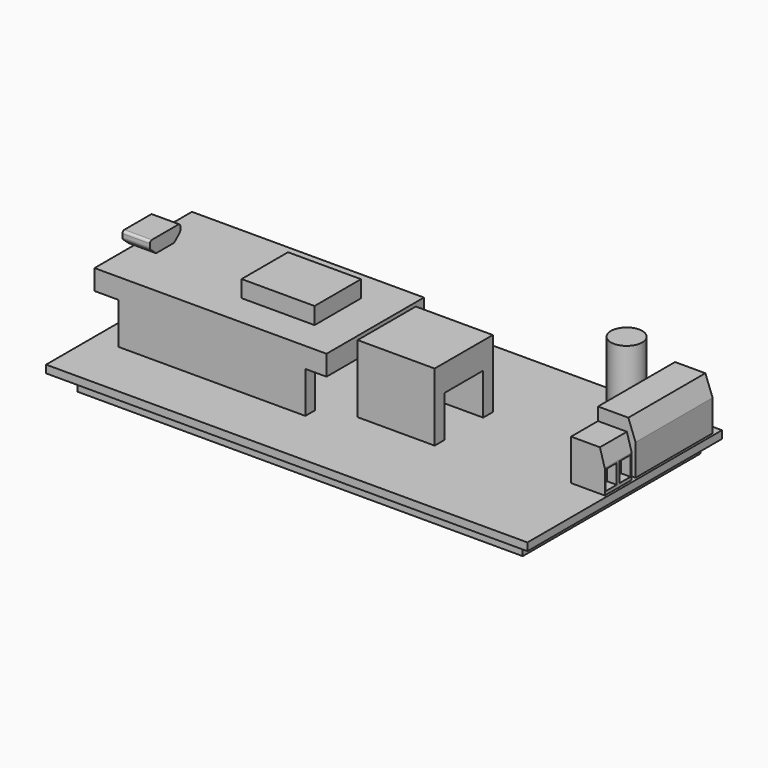
from build123d import *

# Parameters (mm, degrees)
F0_W      = 100
F0_H      = 50.5
F1_DEPTH  = 1.6
F2_W      = 7.8
F2_H      = 20
F3_DEPTH  = 10.5
F4_SIZE2  = 1.5
F4_SIZE   = 4
F2_W_2    = 7
F2_H_2    = 7
F5_DEPTH  = 8.5
F6_SIZE2  = 1
F6_SIZE   = 3.5
F2_R      = 3.25
F7_DEPTH  = 15
F2_W_3    = 38.8
F2_H_3    = 2.5
F2_W_4    = 16
F8_DEPTH  = 8.6
F9_W      = 92.5
F9_H      = 46.1
F10_DEPTH = 2.5
F11_W     = 2.9
F11_H     = 4
F12_DEPTH = 2
F13_W     = 16
F13_H     = 15.1
F14_DEPTH = 5.5
F15_W     = 48.2
F15_H     = 25.3
F16_DEPTH = 4.2
F17_W     = 15.16
F17_H     = 12.06
F18_DEPTH = 3.5
F19_W     = 5.7
F19_H     = 7.9
F20_DEPTH = 2.9
F22_DEPTH = 5.7
F23_R     = 0.5


with BuildPart() as f1:
    # F0 (on Top) → F1 (new body)
    with BuildSketch(Plane.XY):
        Rectangle(F0_W, F0_H)
    extrude(amount=F1_DEPTH)

    # F2 (on face) → F3 (join)
    with BuildSketch(Plane.XY.offset(1.6)):
        with Locations((45.6, 13.45)):
            Rectangle(F2_W, F2_H)
    extrude(amount=F3_DEPTH)

    # F4
    f4_edges = [f1.edges().sort_by_distance(p)[0] for p in [
        (49.5, 13.45, 12.1),
    ]]
    f4_side = f1.faces().sort_by_distance((49.5, 13.45, 6.85))[0]
    chamfer(f4_edges, length=F4_SIZE, length2=F4_SIZE2, reference=f4_side)

    # F2 (on face) → F5 (join)
    with BuildSketch(Plane.XY.offset(1.6)):
        with Locations((46, -1.05)):
            Rectangle(F2_W_2, F2_H_2)
    extrude(amount=F5_DEPTH)

    # F6
    f6_edges = [f1.edges().sort_by_distance(p)[0] for p in [
        (49.5, -1.05, 10.1),
    ]]
    f6_side = f1.faces().sort_by_distance((49.5, -1.05, 5.85))[0]
    chamfer(f6_edges, length=F6_SIZE, length2=F6_SIZE2, reference=f6_side)

    # F2 (on face) → F7 (join)
    with BuildSketch(Plane.XY.offset(1.6)):
        with Locations((35.4, 18.75)):
            Circle(F2_R)
    extrude(amount=F7_DEPTH)

    # F2 (on face) → F8 (join)
    with BuildSketch(Plane.XY.offset(1.6)):
        with Locations((-25.3, 11)):
            Rectangle(F2_W_3, F2_H_3)
        with Locations((9, 5.75)):
            Rectangle(F2_W_4, F2_H_3)
        with Locations((9, -6.85)):
            Rectangle(F2_W_4, F2_H_3)
        with Locations((-25.3, -11.8)):
            Rectangle(F2_W_3, F2_H_3)
    extrude(amount=F8_DEPTH)

    # F9 (on face) → F10 (join)
    with BuildSketch(Plane(origin=(0, 0, 0), x_dir=(1, 0, 0), z_dir=(0, 0, -1))):
        with Locations((1.25, 0.3)):
            Rectangle(F9_W, F9_H)
    extrude(amount=F10_DEPTH)

    # F11 (on face) → F12 (cut)
    with BuildSketch(Plane.YZ.offset(49.5)):
        with Locations((-2.9, 4.3)):
            Rectangle(F11_W, F11_H)
        with Locations((0.7, 4.3)):
            Rectangle(F11_W, F11_H)
    extrude(amount=-F12_DEPTH, mode=Mode.SUBTRACT)

    # F13 (on face) → F14 (join)
    with BuildSketch(Plane.XY.offset(10.2)):
        with Locations((9, -0.55)):
            Rectangle(F13_W, F13_H)
    extrude(amount=F14_DEPTH)

    # F15 (on face) → F16 (join)
    with BuildSketch(Plane.XY.offset(10.2)):
        with Locations((-25.6, -0.4)):
            Rectangle(F15_W, F15_H)
    extrude(amount=F16_DEPTH)

    # F17 (on face) → F18 (join)
    with BuildSketch(Plane.XY.offset(14.4)):
        with Locations((-16.88, -0.38)):
            Rectangle(F17_W, F17_H)
    extrude(amount=F18_DEPTH)

    # F19 (on face) → F20 (join)
    with BuildSketch(Plane.XY.offset(14.4)):
        with Locations((-48, -0.4)):
            Rectangle(F19_W, F19_H)
    extrude(amount=F20_DEPTH)

    # F21 (on face) → F22 (cut, through all)
    with BuildSketch(Plane(origin=(-50.85, 0, 0), x_dir=(0, -1, 0), z_dir=(-1, 0, 0))):
        Polygon((4.35, 14.4), (4.35, 15.8), (2.75, 14.4), align=None)
        Polygon((-3.55, 15.8), (-3.55, 14.4), (-1.95, 14.4), align=None)
    extrude(amount=-F22_DEPTH, mode=Mode.SUBTRACT)

    # F23
    f23_edges = [f1.edges().sort_by_distance(p)[0] for p in [
        (-48, 3.55, 15.8),
        (-48, 3.55, 17.3),
        (-48, -4.35, 17.3),
        (-48, -4.35, 15.8),
    ]]
    fillet(f23_edges, radius=F23_R)


solid = f1.part
